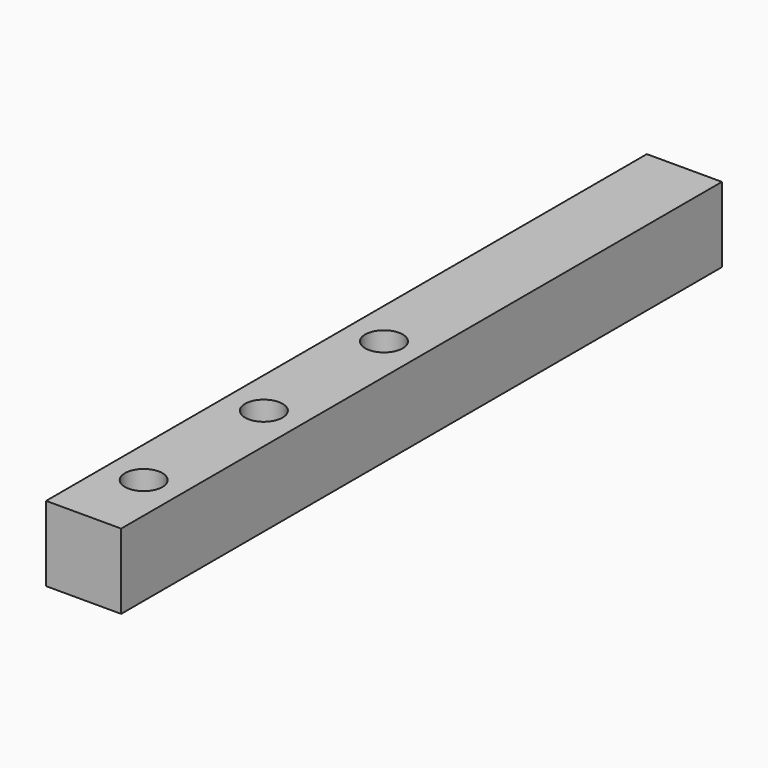
from build123d import *

# Parameters (mm, degrees)
F0_W     = 10
F0_H     = 100
F1_DEPTH = 10
F2_R     = 2.5
F3_DEPTH = 10


with BuildPart() as f1:
    # F0 (on Top) → F1 (new body)
    with BuildSketch(Plane.XY):
        Rectangle(F0_W, F0_H)
    extrude(amount=F1_DEPTH)

    # F2 (on face) → F3 (cut, through all)
    with BuildSketch(Plane.XY.offset(10)):
        Circle(F2_R)
        with Locations((0, -20)):
            Circle(F2_R)
        with Locations((0, -40)):
            Circle(F2_R)
    extrude(amount=-F3_DEPTH, mode=Mode.SUBTRACT)


solid = f1.part
